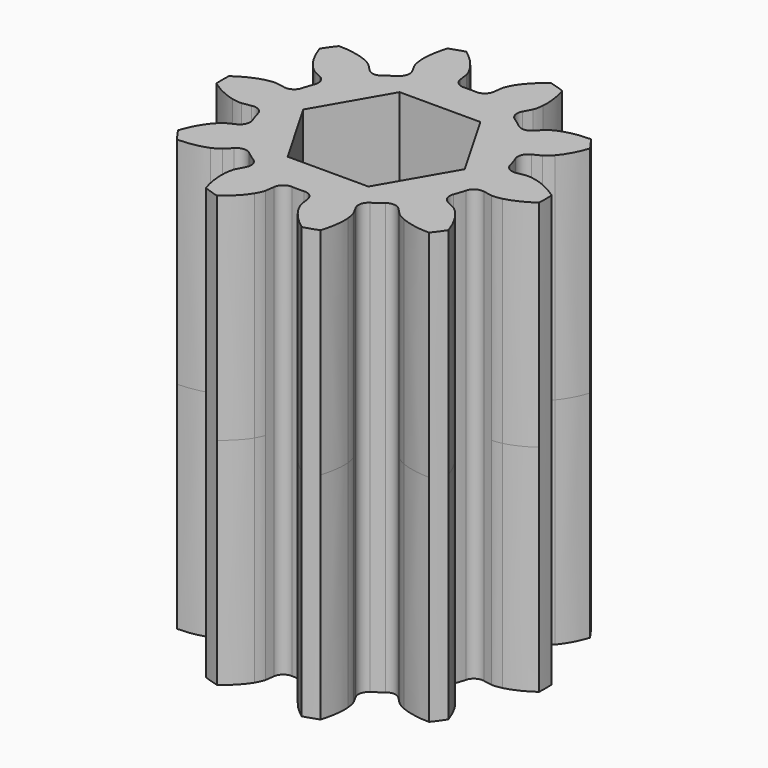
from build123d import *

# Parameters (mm, degrees)
EXTRUDE025_DEPTH = 8
EXTRUDE026_DEPTH = 8


with BuildPart() as extrude025:
    # Sketch021 → Extrude025 (new body, symmetric)
    with BuildSketch(Plane.XY):
        Polygon((-1.5, 2.598076), (1.5, 2.598076), (3, 0), (1.5, -2.598076), (-1.5, -2.598076), (-3, 0), align=None)
    extrude(amount=EXTRUDE025_DEPTH, both=True)


with BuildPart() as flap_connector:
    # InvoluteGear → Extrude026 (new body, symmetric)
    with BuildSketch(Plane.XY):
        with BuildLine():
            Line((4.315383, -0.749582), (4.644656, -0.805895))
            add(Edge.make_bspline(
                [(4.644656, -0.805895), (4.684738, -0.809558), (4.804939, -0.814175), (5.008015, -0.767399)],
                knots=[0, 0, 0, 0, 1, 1, 1, 1], degree=3))
            add(Edge.make_bspline(
                [(5.008015, -0.767399), (5.249125, -0.710088), (5.590734, -0.580595), (5.994373, -0.293044)],
                knots=[0, 0, 0, 0, 1, 1, 1, 1], degree=3))
            ThreePointArc((5.994373, -0.293044), (6.000767, 0.000367), (5.992805, 0.293739))
            add(Edge.make_bspline(
                [(5.992805, 0.293739), (5.590734, 0.580595), (5.249125, 0.710088), (5.008015, 0.767399)],
                knots=[0, 0, 0, 0, 1, 1, 1, 1], degree=3))
            add(Edge.make_bspline(
                [(5.008015, 0.767399), (4.804939, 0.814175), (4.684738, 0.809558), (4.644656, 0.805895)],
                knots=[0, 0, 0, 0, 1, 1, 1, 1], degree=3))
            Line((4.644656, 0.805895), (4.315383, 0.749582))
            ThreePointArc((4.315383, 0.749582), (4.036508, 0.796256), (3.867072, 1.022621))
            ThreePointArc((3.867072, 1.022621), (3.804226, 1.236068), (3.729608, 1.445691))
            ThreePointArc((3.729608, 1.445691), (3.733631, 1.728415), (3.931811, 1.930094))
            Line((3.931811, 1.930094), (4.231299, 2.078077))
            add(Edge.make_bspline(
                [(4.231299, 2.078077), (4.265879, 2.098674), (4.365837, 2.165591), (4.502635, 2.322799)],
                knots=[0, 0, 0, 0, 1, 1, 1, 1], degree=3))
            add(Edge.make_bspline(
                [(4.502635, 2.322799), (4.664011, 2.510885), (4.864264, 2.81644), (5.021796, 3.286326)],
                knots=[0, 0, 0, 0, 1, 1, 1, 1], degree=3))
            ThreePointArc((5.021796, 3.286326), (4.854507, 3.527459), (4.675626, 3.760122))
            add(Edge.make_bspline(
                [(4.675626, 3.760122), (4.181734, 3.755863), (3.829252, 3.659832), (3.600504, 3.564476)],
                knots=[0, 0, 0, 0, 1, 1, 1, 1], degree=3))
            add(Edge.make_bspline(
                [(3.600504, 3.564476), (3.408717, 3.482953), (3.314186, 3.408566), (3.283912, 3.382043)],
                knots=[0, 0, 0, 0, 1, 1, 1, 1], degree=3))
            Line((3.283912, 3.382043), (3.050625, 3.142943))
            ThreePointArc((3.050625, 3.142943), (2.797576, 3.016785), (2.527446, 3.100325))
            ThreePointArc((2.527446, 3.100325), (2.351141, 3.236068), (2.167561, 3.361797))
            ThreePointArc((2.167561, 3.361797), (2.004634, 3.592891), (2.046421, 3.872539))
            Line((2.046421, 3.872539), (2.201729, 4.168295))
            add(Edge.make_bspline(
                [(2.201729, 4.168295), (2.217599, 4.205283), (2.259134, 4.318175), (2.277402, 4.525766)],
                knots=[0, 0, 0, 0, 1, 1, 1, 1], degree=3))
            add(Edge.make_bspline(
                [(2.277402, 4.525766), (2.297403, 4.772785), (2.279811, 5.137691), (2.131064, 5.610432)],
                knots=[0, 0, 0, 0, 1, 1, 1, 1], degree=3))
            ThreePointArc((2.131064, 5.610432), (1.85399, 5.707182), (1.572516, 5.790267))
            add(Edge.make_bspline(
                [(1.572516, 5.790267), (1.175453, 5.496518), (0.946735, 5.211644), (0.817722, 5.000045)],
                knots=[0, 0, 0, 0, 1, 1, 1, 1], degree=3))
            add(Edge.make_bspline(
                [(0.817722, 5.000045), (0.710482, 4.821362), (0.677728, 4.705618), (0.668826, 4.666365)],
                knots=[0, 0, 0, 0, 1, 1, 1, 1], degree=3))
            Line((0.668826, 4.666365), (0.620632, 4.335806))
            ThreePointArc((0.620632, 4.335806), (0.490065, 4.085004), (0.222421, 3.993811))
            ThreePointArc((0.222421, 3.993811), (0, 4), (-0.222421, 3.993811))
            ThreePointArc((-0.222421, 3.993811), (-0.490065, 4.085004), (-0.620632, 4.335806))
            Line((-0.620632, 4.335806), (-0.668826, 4.666365))
            add(Edge.make_bspline(
                [(-0.668826, 4.666365), (-0.677728, 4.705618), (-0.710482, 4.821362), (-0.817722, 5.000045)],
                knots=[0, 0, 0, 0, 1, 1, 1, 1], degree=3))
            add(Edge.make_bspline(
                [(-0.817722, 5.000045), (-0.946735, 5.211644), (-1.175453, 5.496518), (-1.573662, 5.791543)],
                knots=[0, 0, 0, 0, 1, 1, 1, 1], degree=3))
            ThreePointArc((-1.573662, 5.791543), (-1.854688, 5.706955), (-2.131241, 5.608726))
            add(Edge.make_bspline(
                [(-2.131241, 5.608726), (-2.279811, 5.137691), (-2.297403, 4.772785), (-2.277402, 4.525766)],
                knots=[0, 0, 0, 0, 1, 1, 1, 1], degree=3))
            add(Edge.make_bspline(
                [(-2.277402, 4.525766), (-2.259134, 4.318175), (-2.217599, 4.205283), (-2.201729, 4.168295)],
                knots=[0, 0, 0, 0, 1, 1, 1, 1], degree=3))
            Line((-2.201729, 4.168295), (-2.046421, 3.872539))
            ThreePointArc((-2.046421, 3.872539), (-2.004634, 3.592891), (-2.167561, 3.361797))
            ThreePointArc((-2.167561, 3.361797), (-2.351141, 3.236068), (-2.527446, 3.100325))
            ThreePointArc((-2.527446, 3.100325), (-2.797576, 3.016785), (-3.050625, 3.142943))
            Line((-3.050625, 3.142943), (-3.283912, 3.382043))
            add(Edge.make_bspline(
                [(-3.283912, 3.382043), (-3.314186, 3.408566), (-3.408717, 3.482953), (-3.600504, 3.564476)],
                knots=[0, 0, 0, 0, 1, 1, 1, 1], degree=3))
            add(Edge.make_bspline(
                [(-3.600504, 3.564476), (-3.829252, 3.659832), (-4.181734, 3.755863), (-4.677303, 3.760481)],
                knots=[0, 0, 0, 0, 1, 1, 1, 1], degree=3))
            ThreePointArc((-4.677303, 3.760481), (-4.854938, 3.526866), (-5.020937, 3.284843))
            add(Edge.make_bspline(
                [(-5.020937, 3.284843), (-4.864264, 2.81644), (-4.664011, 2.510885), (-4.502635, 2.322799)],
                knots=[0, 0, 0, 0, 1, 1, 1, 1], degree=3))
            add(Edge.make_bspline(
                [(-4.502635, 2.322799), (-4.365837, 2.165591), (-4.265879, 2.098674), (-4.231299, 2.078077)],
                knots=[0, 0, 0, 0, 1, 1, 1, 1], degree=3))
            Line((-4.231299, 2.078077), (-3.931811, 1.930094))
            ThreePointArc((-3.931811, 1.930094), (-3.733631, 1.728415), (-3.729608, 1.445691))
            ThreePointArc((-3.729608, 1.445691), (-3.804226, 1.236068), (-3.867072, 1.022621))
            ThreePointArc((-3.867072, 1.022621), (-4.036508, 0.796256), (-4.315383, 0.749582))
            Line((-4.315383, 0.749582), (-4.644656, 0.805895))
            add(Edge.make_bspline(
                [(-4.644656, 0.805895), (-4.684738, 0.809558), (-4.804939, 0.814175), (-5.008015, 0.767399)],
                knots=[0, 0, 0, 0, 1, 1, 1, 1], degree=3))
            add(Edge.make_bspline(
                [(-5.008015, 0.767399), (-5.249125, 0.710088), (-5.590734, 0.580595), (-5.994373, 0.293044)],
                knots=[0, 0, 0, 0, 1, 1, 1, 1], degree=3))
            ThreePointArc((-5.994373, 0.293044), (-6.000767, -0.000367), (-5.992805, -0.293739))
            add(Edge.make_bspline(
                [(-5.992805, -0.293739), (-5.590734, -0.580595), (-5.249125, -0.710088), (-5.008015, -0.767399)],
                knots=[0, 0, 0, 0, 1, 1, 1, 1], degree=3))
            add(Edge.make_bspline(
                [(-5.008015, -0.767399), (-4.804939, -0.814175), (-4.684738, -0.809558), (-4.644656, -0.805895)],
                knots=[0, 0, 0, 0, 1, 1, 1, 1], degree=3))
            Line((-4.644656, -0.805895), (-4.315383, -0.749582))
            ThreePointArc((-4.315383, -0.749582), (-4.036508, -0.796256), (-3.867072, -1.022621))
            ThreePointArc((-3.867072, -1.022621), (-3.804226, -1.236068), (-3.729608, -1.445691))
            ThreePointArc((-3.729608, -1.445691), (-3.733631, -1.728415), (-3.931811, -1.930094))
            Line((-3.931811, -1.930094), (-4.231299, -2.078077))
            add(Edge.make_bspline(
                [(-4.231299, -2.078077), (-4.265879, -2.098674), (-4.365837, -2.165591), (-4.502635, -2.322799)],
                knots=[0, 0, 0, 0, 1, 1, 1, 1], degree=3))
            add(Edge.make_bspline(
                [(-4.502635, -2.322799), (-4.664011, -2.510885), (-4.864264, -2.81644), (-5.021796, -3.286326)],
                knots=[0, 0, 0, 0, 1, 1, 1, 1], degree=3))
            ThreePointArc((-5.021796, -3.286326), (-4.854507, -3.527459), (-4.675626, -3.760122))
            add(Edge.make_bspline(
                [(-4.675626, -3.760122), (-4.181734, -3.755863), (-3.829252, -3.659832), (-3.600504, -3.564476)],
                knots=[0, 0, 0, 0, 1, 1, 1, 1], degree=3))
            add(Edge.make_bspline(
                [(-3.600504, -3.564476), (-3.408717, -3.482953), (-3.314186, -3.408566), (-3.283912, -3.382043)],
                knots=[0, 0, 0, 0, 1, 1, 1, 1], degree=3))
            Line((-3.283912, -3.382043), (-3.050625, -3.142943))
            ThreePointArc((-3.050625, -3.142943), (-2.797576, -3.016785), (-2.527446, -3.100325))
            ThreePointArc((-2.527446, -3.100325), (-2.351141, -3.236068), (-2.167561, -3.361797))
            ThreePointArc((-2.167561, -3.361797), (-2.004634, -3.592891), (-2.046421, -3.872539))
            Line((-2.046421, -3.872539), (-2.201729, -4.168295))
            add(Edge.make_bspline(
                [(-2.201729, -4.168295), (-2.217599, -4.205283), (-2.259134, -4.318175), (-2.277402, -4.525766)],
                knots=[0, 0, 0, 0, 1, 1, 1, 1], degree=3))
            add(Edge.make_bspline(
                [(-2.277402, -4.525766), (-2.297403, -4.772785), (-2.279811, -5.137691), (-2.131064, -5.610432)],
                knots=[0, 0, 0, 0, 1, 1, 1, 1], degree=3))
            ThreePointArc((-2.131064, -5.610432), (-1.85399, -5.707182), (-1.572516, -5.790267))
            add(Edge.make_bspline(
                [(-1.572516, -5.790267), (-1.175453, -5.496518), (-0.946735, -5.211644), (-0.817722, -5.000045)],
                knots=[0, 0, 0, 0, 1, 1, 1, 1], degree=3))
            add(Edge.make_bspline(
                [(-0.817722, -5.000045), (-0.710482, -4.821362), (-0.677728, -4.705618), (-0.668826, -4.666365)],
                knots=[0, 0, 0, 0, 1, 1, 1, 1], degree=3))
            Line((-0.668826, -4.666365), (-0.620632, -4.335806))
            ThreePointArc((-0.620632, -4.335806), (-0.490065, -4.085004), (-0.222421, -3.993811))
            ThreePointArc((-0.222421, -3.993811), (0, -4), (0.222421, -3.993811))
            ThreePointArc((0.222421, -3.993811), (0.490065, -4.085004), (0.620632, -4.335806))
            Line((0.620632, -4.335806), (0.668826, -4.666365))
            add(Edge.make_bspline(
                [(0.668826, -4.666365), (0.677728, -4.705618), (0.710482, -4.821362), (0.817722, -5.000045)],
                knots=[0, 0, 0, 0, 1, 1, 1, 1], degree=3))
            add(Edge.make_bspline(
                [(0.817722, -5.000045), (0.946735, -5.211644), (1.175453, -5.496518), (1.573662, -5.791543)],
                knots=[0, 0, 0, 0, 1, 1, 1, 1], degree=3))
            ThreePointArc((1.573662, -5.791543), (1.854688, -5.706955), (2.131241, -5.608726))
            add(Edge.make_bspline(
                [(2.131241, -5.608726), (2.279811, -5.137691), (2.297403, -4.772785), (2.277402, -4.525766)],
                knots=[0, 0, 0, 0, 1, 1, 1, 1], degree=3))
            add(Edge.make_bspline(
                [(2.277402, -4.525766), (2.259134, -4.318175), (2.217599, -4.205283), (2.201729, -4.168295)],
                knots=[0, 0, 0, 0, 1, 1, 1, 1], degree=3))
            Line((2.201729, -4.168295), (2.046421, -3.872539))
            ThreePointArc((2.046421, -3.872539), (2.004634, -3.592891), (2.167561, -3.361797))
            ThreePointArc((2.167561, -3.361797), (2.351141, -3.236068), (2.527446, -3.100325))
            ThreePointArc((2.527446, -3.100325), (2.797576, -3.016785), (3.050625, -3.142943))
            Line((3.050625, -3.142943), (3.283912, -3.382043))
            add(Edge.make_bspline(
                [(3.283912, -3.382043), (3.314186, -3.408566), (3.408717, -3.482953), (3.600504, -3.564476)],
                knots=[0, 0, 0, 0, 1, 1, 1, 1], degree=3))
            add(Edge.make_bspline(
                [(3.600504, -3.564476), (3.829252, -3.659832), (4.181734, -3.755863), (4.677303, -3.760481)],
                knots=[0, 0, 0, 0, 1, 1, 1, 1], degree=3))
            ThreePointArc((4.677303, -3.760481), (4.854938, -3.526866), (5.020937, -3.284843))
            add(Edge.make_bspline(
                [(5.020937, -3.284843), (4.864264, -2.81644), (4.664011, -2.510885), (4.502635, -2.322799)],
                knots=[0, 0, 0, 0, 1, 1, 1, 1], degree=3))
            add(Edge.make_bspline(
                [(4.502635, -2.322799), (4.365837, -2.165591), (4.265879, -2.098674), (4.231299, -2.078077)],
                knots=[0, 0, 0, 0, 1, 1, 1, 1], degree=3))
            Line((4.231299, -2.078077), (3.931811, -1.930094))
            ThreePointArc((3.931811, -1.930094), (3.733631, -1.728415), (3.729608, -1.445691))
            ThreePointArc((3.729608, -1.445691), (3.804226, -1.236068), (3.867072, -1.022621))
            ThreePointArc((3.867072, -1.022621), (4.036508, -0.796256), (4.315383, -0.749582))
        make_face()
    extrude(amount=EXTRUDE026_DEPTH, both=True)

    # Cut002: cut Extrude025
    add(extrude025.part, mode=Mode.SUBTRACT)


solid = flap_connector.part
